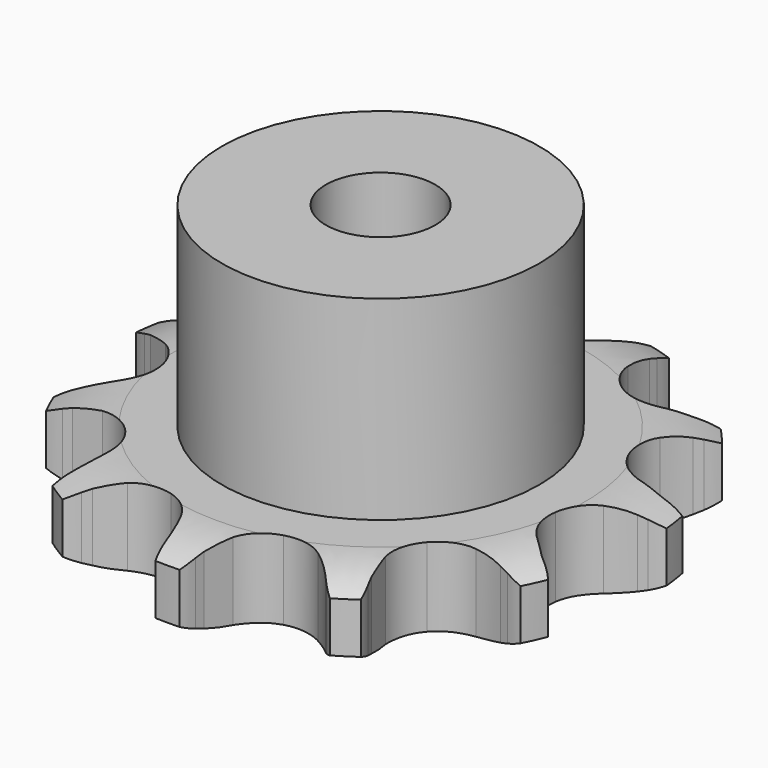
from build123d import *

# Parameters (mm, degrees)
PAD_DEPTH         = 7.2
SKETCH001_R       = 14.5
PAD001_DEPTH      = 25
SKETCH002_R       = 5
POCKET_DEPTH      = 0.001
POCKET_DEPTH_BACK = -25.001


with BuildPart() as part:
    # Sprocket → Pad (new body)
    with BuildSketch(Plane.XY):
        with BuildLine():
            ThreePointArc((-7.380823, 25.136776), (-6.051163, 23.969307), (-5.046327, 22.512843))
            Line((-5.046327, 22.512843), (-4.68124, 21.812874))
            ThreePointArc((-4.68124, 21.812874), (-4.040517, 20.736887), (-3.282898, 19.739747))
            ThreePointArc((-3.282898, 19.739747), (-1.807809, 18.621753), (0, 18.224731))
            ThreePointArc((0, 18.224731), (1.807809, 18.621753), (3.282898, 19.739747))
            ThreePointArc((3.282898, 19.739747), (4.040517, 20.736887), (4.68124, 21.812874))
            Line((4.68124, 21.812874), (5.046327, 22.512843))
            ThreePointArc((5.046327, 22.512843), (6.051163, 23.969307), (7.380823, 25.136776))
            ThreePointArc((7.380823, 25.136776), (7.868224, 23.43577), (7.926122, 21.66726))
            Line((7.926122, 21.66726), (7.85482, 20.881026))
            ThreePointArc((7.85482, 20.881026), (7.812108, 19.629448), (7.910363, 18.381001))
            ThreePointArc((7.910363, 18.381001), (8.546854, 16.642991), (9.853034, 15.331619))
            ThreePointArc((9.853034, 15.331619), (11.588505, 14.68824), (13.433863, 14.831263))
            Line((13.433863, 14.831263), (15.731039, 15.819288))
            ThreePointArc((15.731039, 15.819288), (16.070347, 16.021108), (16.416603, 16.210759))
            ThreePointArc((16.416603, 16.210759), (18.049348, 16.892759), (19.799111, 17.156027))
            ThreePointArc((19.799111, 17.156027), (19.289505, 15.461541), (18.382083, 13.942474))
            Line((18.382083, 13.942474), (17.897031, 13.319601))
            ThreePointArc((17.897031, 13.319601), (17.184444, 12.289798), (16.59214, 11.186417))
            ThreePointArc((16.59214, 11.186417), (16.187951, 9.380197), (16.577799, 7.570827))
            ThreePointArc((16.577799, 7.570827), (17.689933, 6.091315), (19.319671, 5.213958))
            Line((19.319671, 5.213958), (21.786345, 4.80319))
            ThreePointArc((21.786345, 4.80319), (22.180901, 4.789528), (22.574723, 4.761873))
            ThreePointArc((22.574723, 4.761873), (24.316992, 4.452879), (25.931321, 3.728361))
            ThreePointArc((25.931321, 3.728361), (24.586504, 2.578383), (23.001862, 1.791051))
            Line((23.001862, 1.791051), (22.25706, 1.529296))
            ThreePointArc((22.25706, 1.529296), (21.100841, 1.048224), (20.00603, 0.440224))
            ThreePointArc((20.00603, 0.440224), (18.689488, -0.860743), (18.03923, -2.59365))
            ThreePointArc((18.03923, -2.59365), (18.174932, -4.43956), (19.07162, -6.058742))
            Line((19.07162, -6.058742), (20.92464, -7.737887))
            ThreePointArc((20.92464, -7.737887), (21.249175, -7.962693), (21.565528, -8.198874))
            ThreePointArc((21.565528, -8.198874), (22.864164, -9.400759), (23.830519, -10.883033))
            ThreePointArc((23.830519, -10.883033), (22.077463, -11.123394), (20.318713, -10.929018))
            Line((20.318713, -10.929018), (19.55063, -10.74655))
            ThreePointArc((19.55063, -10.74655), (18.317869, -10.526154), (17.068147, -10.445736))
            ThreePointArc((17.068147, -10.445736), (15.257245, -10.828404), (13.773333, -11.934661))
            ThreePointArc((13.773333, -11.934661), (12.889518, -13.560906), (12.768464, -15.407834))
            Line((12.768464, -15.407834), (13.41951, -17.82224))
            ThreePointArc((13.41951, -17.82224), (13.570987, -18.186815), (13.70943, -18.556537))
            ThreePointArc((13.70943, -18.556537), (14.152125, -20.269722), (14.163696, -22.039142))
            ThreePointArc((14.163696, -22.039142), (12.558982, -21.293572), (11.184516, -20.179201))
            Line((11.184516, -20.179201), (10.637013, -19.610441))
            ThreePointArc((10.637013, -19.610441), (9.719104, -18.758552), (8.711247, -18.015249))
            ThreePointArc((8.711247, -18.015249), (6.980934, -17.358122), (5.1345, -17.486501))
            ThreePointArc((5.1345, -17.486501), (3.511774, -18.37676), (2.411412, -19.865048))
            Line((2.411412, -19.865048), (1.65378, -22.248157))
            ThreePointArc((1.65378, -22.248157), (1.584106, -22.636752), (1.500686, -23.02263))
            ThreePointArc((1.500686, -23.02263), (0.946886, -24.703191), (0, -26.197978))
            ThreePointArc((0, -26.197978), (-0.946886, -24.703191), (-1.500686, -23.02263))
            Line((-1.500686, -23.02263), (-1.65378, -22.248157))
            ThreePointArc((-1.65378, -22.248157), (-1.965409, -21.035242), (-2.411412, -19.865048))
            ThreePointArc((-2.411412, -19.865048), (-3.511774, -18.37676), (-5.1345, -17.486501))
            ThreePointArc((-5.1345, -17.486501), (-6.980934, -17.358122), (-8.711247, -18.015249))
            Line((-8.711247, -18.015249), (-10.637013, -19.610441))
            ThreePointArc((-10.637013, -19.610441), (-10.905717, -19.89968), (-11.184516, -20.179201))
            ThreePointArc((-11.184516, -20.179201), (-12.558982, -21.293572), (-14.163696, -22.039142))
            ThreePointArc((-14.163696, -22.039142), (-14.152125, -20.269722), (-13.70943, -18.556537))
            Line((-13.70943, -18.556537), (-13.41951, -17.82224))
            ThreePointArc((-13.41951, -17.82224), (-13.025918, -16.633392), (-12.768464, -15.407834))
            ThreePointArc((-12.768464, -15.407834), (-12.889518, -13.560906), (-13.773333, -11.934661))
            ThreePointArc((-13.773333, -11.934661), (-15.257245, -10.828404), (-17.068147, -10.445736))
            Line((-17.068147, -10.445736), (-19.55063, -10.74655))
            ThreePointArc((-19.55063, -10.74655), (-19.933052, -10.8446), (-20.318713, -10.929018))
            ThreePointArc((-20.318713, -10.929018), (-22.077463, -11.123394), (-23.830519, -10.883033))
            ThreePointArc((-23.830519, -10.883033), (-22.864164, -9.400759), (-21.565528, -8.198874))
            Line((-21.565528, -8.198874), (-20.92464, -7.737887))
            ThreePointArc((-20.92464, -7.737887), (-19.95079, -6.950557), (-19.07162, -6.058742))
            ThreePointArc((-19.07162, -6.058742), (-18.174932, -4.43956), (-18.03923, -2.59365))
            ThreePointArc((-18.03923, -2.59365), (-18.689488, -0.860743), (-20.00603, 0.440224))
            Line((-20.00603, 0.440224), (-22.25706, 1.529296))
            ThreePointArc((-22.25706, 1.529296), (-22.631784, 1.653563), (-23.001862, 1.791051))
            ThreePointArc((-23.001862, 1.791051), (-24.586504, 2.578383), (-25.931321, 3.728361))
            ThreePointArc((-25.931321, 3.728361), (-24.316992, 4.452879), (-22.574723, 4.761873))
            Line((-22.574723, 4.761873), (-21.786345, 4.80319))
            ThreePointArc((-21.786345, 4.80319), (-20.541427, 4.939031), (-19.319671, 5.213958))
            ThreePointArc((-19.319671, 5.213958), (-17.689933, 6.091315), (-16.577799, 7.570827))
            ThreePointArc((-16.577799, 7.570827), (-16.187951, 9.380197), (-16.59214, 11.186417))
            Line((-16.59214, 11.186417), (-17.897031, 13.319601))
            ThreePointArc((-17.897031, 13.319601), (-18.145085, 13.626732), (-18.382083, 13.942474))
            ThreePointArc((-18.382083, 13.942474), (-19.289505, 15.461541), (-19.799111, 17.156027))
            ThreePointArc((-19.799111, 17.156027), (-18.049348, 16.892759), (-16.416603, 16.210759))
            Line((-16.416603, 16.210759), (-15.731039, 15.819288))
            ThreePointArc((-15.731039, 15.819288), (-14.610307, 15.260511), (-13.433863, 14.831263))
            ThreePointArc((-13.433863, 14.831263), (-11.588505, 14.68824), (-9.853034, 15.331619))
            ThreePointArc((-9.853034, 15.331619), (-8.546854, 16.642991), (-7.910363, 18.381001))
            Line((-7.910363, 18.381001), (-7.85482, 20.881026))
            ThreePointArc((-7.85482, 20.881026), (-7.897449, 21.27351), (-7.926122, 21.66726))
            ThreePointArc((-7.926122, 21.66726), (-7.868224, 23.43577), (-7.380823, 25.136776))
        make_face()
    extrude(amount=PAD_DEPTH)

    # Sketch → Groove (revolve, cut)
    with BuildSketch(Plane.XZ):
        with BuildLine():
            Line((18.683431, 0), (24.35, 0))
            Line((30.016569, 0), (24.35, 0))
            Line((30.016569, 7.2), (30.016569, 0))
            Line((24.35, 7.2), (30.016569, 7.2))
            Line((18.683431, 7.2), (24.35, 7.2))
            ThreePointArc((24.35, 5.9), (21.59032, 6.870833), (18.683431, 7.2))
            Line((24.35, 1.3), (24.35, 5.9))
            ThreePointArc((18.683431, 0), (21.59032, 0.329167), (24.35, 1.3))
        make_face()
    revolve(axis=Axis((0, 0, 0), (0, 0, 1)), mode=Mode.SUBTRACT)

    # Sketch001 → Pad001 (join)
    with BuildSketch(Plane.XY):
        Circle(SKETCH001_R)
    extrude(amount=PAD001_DEPTH)

    # Sketch002 → Pocket (cut, two sides)
    with BuildSketch(Plane.XY) as pocket_sk:
        Circle(SKETCH002_R)
    extrude(amount=-POCKET_DEPTH, mode=Mode.SUBTRACT)
    extrude(pocket_sk.sketch, amount=-POCKET_DEPTH_BACK, mode=Mode.SUBTRACT)


solid = part.part
